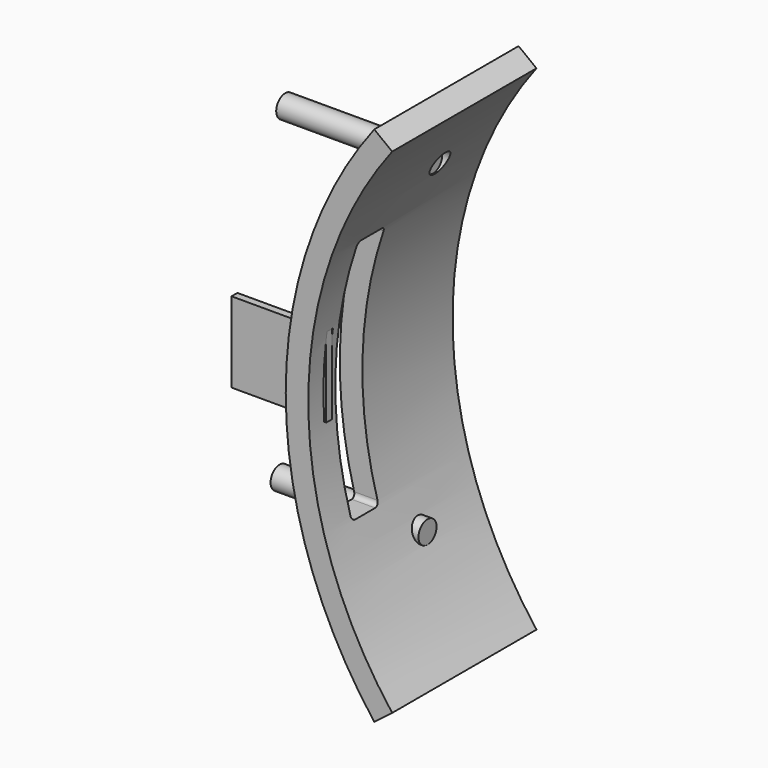
from build123d import *

# Parameters (mm, degrees)
F1_DEPTH  = 50.8
F3_DEPTH  = 50.8
F4_R      = 3.175
F5_DEPTH  = 50.8
F5_FACE_R = 3.175
F6_DEPTH  = 9.144
F7_W      = 2.072896
F7_H      = 22.642412
F8_DEPTH  = 44.45
F8_FACE_W = 2.072896
F8_FACE_H = 22.642412
F9_DEPTH  = 17.78


with BuildPart() as f1:
    # F0 (on Front) → F1 (new body)
    with BuildSketch(Plane.XZ):
        with BuildLine():
            Line((5.037427, 65.466186), (0, 69.3323))
            ThreePointArc((0, 69.3323), (-24.938895, -4.123856), (0, -77.580011))
            Line((0, -77.580011), (5.037427, -73.713898))
            ThreePointArc((5.037427, -73.713898), (-18.588894, -4.123856), (5.037427, 65.466186))
        make_face()
    extrude(amount=-F1_DEPTH)

    # F2 (on Right) → F3 (cut)
    with BuildSketch(Plane.YZ):
        with BuildLine():
            Line((17.769823, 33.552193), (10.784823, 33.552193))
            ThreePointArc((10.784823, 33.552193), (9.886797, 33.180219), (9.514823, 32.282193))
            Line((9.514823, 32.282193), (9.514823, -35.027807))
            ThreePointArc((9.514823, -35.027807), (9.886797, -35.925833), (10.784823, -36.297807))
            Line((10.784823, -36.297807), (17.769823, -36.297807))
            ThreePointArc((17.769823, -36.297807), (18.667848, -35.925833), (19.039823, -35.027807))
            Line((19.039823, -35.027807), (19.039823, 32.282193))
            ThreePointArc((19.039823, 32.282193), (18.667848, 33.180219), (17.769823, 33.552193))
        make_face()
    extrude(amount=-F3_DEPTH, mode=Mode.SUBTRACT)

    # F4 (on Right) → F5 (join)
    with BuildSketch(Plane.YZ):
        with Locations((32.150656, 45.544412)):
            Circle(F4_R)
        with Locations((30.170465, -45.724433)):
            Circle(F4_R)
    extrude(amount=-F5_DEPTH)

    # F5_face (on face) → F6 (cut)
    with BuildSketch(Plane(origin=(0, 32.150656, 45.544412), x_dir=(0, 1, 0), z_dir=(1, 0, 0))):
        Circle(F5_FACE_R)
        with Locations((-1.980191, -91.268845)):
            Circle(F5_FACE_R)
    extrude(amount=-F6_DEPTH, mode=Mode.SUBTRACT)

    # F7 (on Right) → F8 (join)
    with BuildSketch(Plane.YZ):
        with Locations((6.339868, 0.01599)):
            Rectangle(F7_W, F7_H)
    extrude(amount=-F8_DEPTH)

    # F8_face (on face) → F9 (cut)
    with BuildSketch(Plane(origin=(0, 6.339868, 0.01599), x_dir=(0, 1, 0), z_dir=(1, 0, 0))):
        Rectangle(F8_FACE_W, F8_FACE_H)
    extrude(amount=-F9_DEPTH, mode=Mode.SUBTRACT)


solid = f1.part
